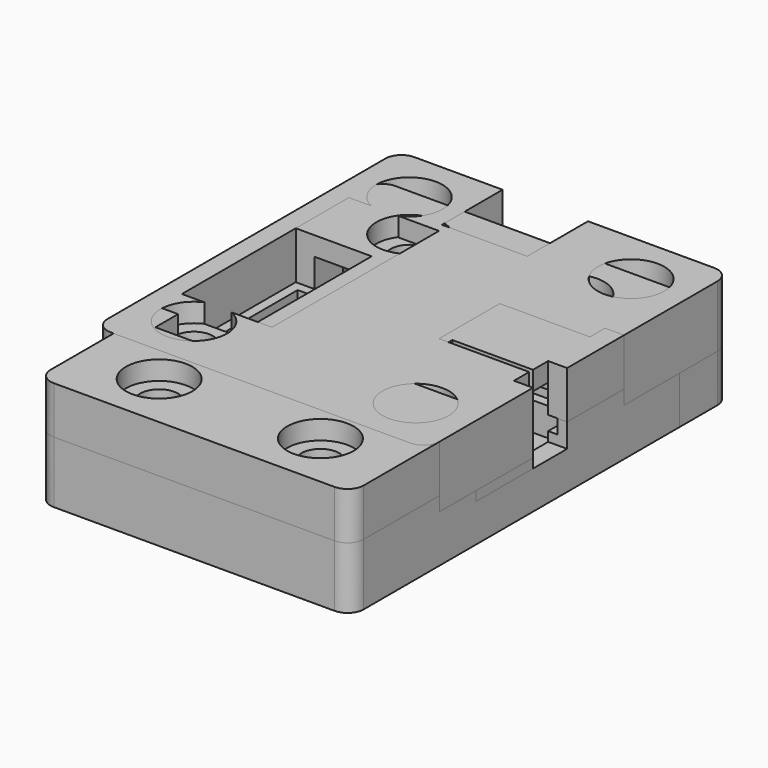
from build123d import *

# Parameters (mm, degrees)
BOX024_W          = 2
BOX024_H          = 12
BOX024_DEPTH      = 10
CYLINDER002_R     = 2
CYLINDER002_DEPTH = 5
CYLINDER001_R     = 2
CYLINDER001_DEPTH = 5
CYLINDER003_R     = 2
CYLINDER003_DEPTH = 5
CYLINDER_R        = 2
CYLINDER_DEPTH    = 5
CYLINDER008_R     = 4
CYLINDER008_DEPTH = 3
CYLINDER009_R     = 4
CYLINDER009_DEPTH = 3
CYLINDER010_R     = 4
CYLINDER010_DEPTH = 3
CYLINDER011_R     = 4
CYLINDER011_DEPTH = 3
BOX001_W          = 31
BOX001_H          = 2
BOX001_DEPTH      = 5
BOX004_W          = 2
BOX004_H          = 40
BOX004_DEPTH      = 5
BOX003_W          = 2
BOX003_H          = 40
BOX003_DEPTH      = 5
BOX_W             = 31
BOX_H             = 36
BOX_DEPTH         = 2
CYLINDER006_R     = 5.5
CYLINDER006_DEPTH = 5
CYLINDER004_R     = 5.5
CYLINDER004_DEPTH = 5
CYLINDER005_R     = 5.5
CYLINDER005_DEPTH = 5
CYLINDER007_R     = 5.5
CYLINDER007_DEPTH = 5
BOX002_W          = 31
BOX002_H          = 2
BOX002_DEPTH      = 5
FILLET_R          = 1.7
BOX048_W          = 2
BOX048_H          = 12
BOX048_DEPTH      = 3
CYLINDER026_R     = 4
CYLINDER026_DEPTH = 3
CYLINDER024_R     = 2
CYLINDER024_DEPTH = 6.5
CYLINDER030_R     = 4
CYLINDER030_DEPTH = 3
CYLINDER031_R     = 4
CYLINDER031_DEPTH = 3
CYLINDER032_R     = 4
CYLINDER032_DEPTH = 3
CYLINDER033_R     = 2
CYLINDER033_DEPTH = 6.5
CYLINDER034_R     = 2
CYLINDER034_DEPTH = 6.5
CYLINDER035_R     = 2
CYLINDER035_DEPTH = 6.5
BOX026_W          = 33
BOX026_H          = 12
BOX026_DEPTH      = 2
BOX027_W          = 33
BOX027_H          = 2
BOX027_DEPTH      = 3
BOX028_W          = 33
BOX028_H          = 2
BOX028_DEPTH      = 3
BOX029_W          = 33
BOX029_H          = 12
BOX029_DEPTH      = 2
CYLINDER025_R     = 5.5
CYLINDER025_DEPTH = 6.5
CYLINDER027_R     = 5.5
CYLINDER027_DEPTH = 6.5
CYLINDER028_R     = 5.5
CYLINDER028_DEPTH = 6.5
CYLINDER029_R     = 5.5
CYLINDER029_DEPTH = 6.5
BOX030_W          = 33
BOX030_H          = 2
BOX030_DEPTH      = 3
BOX031_W          = 33
BOX031_H          = 2
BOX031_DEPTH      = 3
BOX032_W          = 2
BOX032_H          = 19
BOX032_DEPTH      = 3
BOX033_W          = 2
BOX033_H          = 19
BOX033_DEPTH      = 3
BOX034_W          = 2
BOX034_H          = 9
BOX034_DEPTH      = 3
BOX035_W          = 2
BOX035_H          = 9
BOX035_DEPTH      = 3
BOX036_W          = 2
BOX036_H          = 9
BOX036_DEPTH      = 3
BOX037_W          = 2
BOX037_H          = 9
BOX037_DEPTH      = 3
BOX038_W          = 29
BOX038_H          = 1
BOX038_DEPTH      = 1.5
BOX039_W          = 31
BOX039_H          = 1
BOX039_DEPTH      = 1.5
BOX040_W          = 29
BOX040_H          = 1
BOX040_DEPTH      = 1.5
BOX041_W          = 31
BOX041_H          = 1
BOX041_DEPTH      = 1.5
BOX042_W          = 1
BOX042_H          = 41
BOX042_DEPTH      = 1.5
BOX043_W          = 1
BOX043_H          = 41
BOX043_DEPTH      = 1.5
BOX044_W          = 2
BOX044_H          = 2
BOX044_DEPTH      = 1.5
BOX045_W          = 2
BOX045_H          = 2
BOX045_DEPTH      = 1.5
BOX046_W          = 2
BOX046_H          = 2
BOX046_DEPTH      = 1.5
BOX047_W          = 2
BOX047_H          = 2
BOX047_DEPTH      = 1.5
BOX025_W          = 33
BOX025_H          = 21
BOX025_DEPTH      = 2
FILLET006_R       = 1.7
CYLINDER047_R     = 3.5
CYLINDER047_DEPTH = 2
CYLINDER046_R     = 3.5
CYLINDER046_DEPTH = 2
BOX060_W          = 8
BOX060_H          = 6
BOX060_DEPTH      = 2
BOX061_W          = 8.5
BOX061_H          = 8
BOX061_DEPTH      = 2
BOX059_W          = 2
BOX059_H          = 12
BOX059_DEPTH      = 5
BOX058_W          = 6
BOX058_H          = 3
BOX058_DEPTH      = 2
BOX057_W          = 8
BOX057_H          = 18
BOX057_DEPTH      = 5
CYLINDER040_R     = 2
CYLINDER040_DEPTH = 5
CYLINDER041_R     = 2
CYLINDER041_DEPTH = 5
CYLINDER042_R     = 2
CYLINDER042_DEPTH = 5
CYLINDER044_R     = 3.5
CYLINDER044_DEPTH = 2
CYLINDER043_R     = 2
CYLINDER043_DEPTH = 5
CYLINDER045_R     = 3.5
CYLINDER045_DEPTH = 2
BOX055_W          = 29
BOX055_H          = 2
BOX055_DEPTH      = 3
BOX050_W          = 2
BOX050_H          = 16
BOX050_DEPTH      = 3
BOX052_W          = 31
BOX052_H          = 2
BOX052_DEPTH      = 3
BOX054_W          = 2
BOX054_H          = 41
BOX054_DEPTH      = 3
BOX056_W          = 23
BOX056_H          = 2
BOX056_DEPTH      = 3
CYLINDER036_R     = 5.5
CYLINDER036_DEPTH = 5
CYLINDER038_R     = 5.5
CYLINDER038_DEPTH = 5
BOX053_W          = 31
BOX053_H          = 2
BOX053_DEPTH      = 3
BOX049_W          = 33
BOX049_H          = 45
BOX049_DEPTH      = 2
CYLINDER039_R     = 5.5
CYLINDER039_DEPTH = 5
CYLINDER037_R     = 5.5
CYLINDER037_DEPTH = 5
BOX051_W          = 2
BOX051_H          = 11
BOX051_DEPTH      = 3
FILLET007_R       = 1.7
CYLINDER016_R     = 2
CYLINDER016_DEPTH = 5
CYLINDER017_R     = 2
CYLINDER017_DEPTH = 5
CYLINDER018_R     = 2
CYLINDER018_DEPTH = 5
BOX022_W          = 9
BOX022_H          = 8
BOX022_DEPTH      = 10
BOX021_W          = 9.5
BOX021_H          = 8
BOX021_DEPTH      = 10
BOX020_W          = 9.5
BOX020_H          = 22
BOX020_DEPTH      = 10
CYLINDER019_R     = 2
CYLINDER019_DEPTH = 5
CYLINDER020_R     = 3.5
CYLINDER020_DEPTH = 2
CYLINDER021_R     = 3.5
CYLINDER021_DEPTH = 2
CYLINDER022_R     = 3.5
CYLINDER022_DEPTH = 2
CYLINDER023_R     = 3.5
CYLINDER023_DEPTH = 2
BOX023_W          = 2
BOX023_H          = 12
BOX023_DEPTH      = 10
BOX015_W          = 31
BOX015_H          = 36
BOX015_DEPTH      = 2
BOX010_W          = 31
BOX010_H          = 2
BOX010_DEPTH      = 5
BOX014_W          = 2
BOX014_H          = 16
BOX014_DEPTH      = 5
BOX012_W          = 31
BOX012_H          = 2
BOX012_DEPTH      = 5
BOX011_W          = 2
BOX011_H          = 40
BOX011_DEPTH      = 5
CYLINDER013_R     = 4.5
CYLINDER013_DEPTH = 5
CYLINDER015_R     = 4.5
CYLINDER015_DEPTH = 5
CYLINDER014_R     = 4.5
CYLINDER014_DEPTH = 5
CYLINDER012_R     = 4.5
CYLINDER012_DEPTH = 5
BOX013_W          = 2
BOX013_H          = 16
BOX013_DEPTH      = 5
BOX016_W          = 2
BOX016_H          = 2
BOX016_DEPTH      = 1.5
BOX017_W          = 2
BOX017_H          = 2
BOX017_DEPTH      = 1.5
BOX019_W          = 2
BOX019_H          = 2
BOX019_DEPTH      = 1.5
BOX007_W          = 1
BOX007_H          = 36
BOX007_DEPTH      = 1.5
BOX005_W          = 31
BOX005_H          = 1
BOX005_DEPTH      = 1.5
BOX008_W          = 1
BOX008_H          = 14
BOX008_DEPTH      = 1.5
BOX009_W          = 1
BOX009_H          = 14
BOX009_DEPTH      = 1.5
BOX006_W          = 31
BOX006_H          = 1
BOX006_DEPTH      = 1.5
BOX018_W          = 2
BOX018_H          = 2
BOX018_DEPTH      = 1.5
FILLET008_R       = 1.7


with BuildPart() as cube024:
    # Box024 → Box024 (new body)
    with BuildSketch(Plane(origin=(31, 12, 4), x_dir=(1, 0, 0), z_dir=(0, 0, 1))):
        with Locations((1, 6)):
            Rectangle(BOX024_W, BOX024_H)
    extrude(amount=BOX024_DEPTH)


with BuildPart() as cylinder002:
    # Cylinder002 → Cylinder002 (new body)
    with BuildSketch(Plane(origin=(3.81, 32.19, 0), x_dir=(1, 0, 0), z_dir=(0, 0, 1))):
        Circle(CYLINDER002_R)
    extrude(amount=CYLINDER002_DEPTH)


with BuildPart() as cylinder001:
    # Cylinder001 → Cylinder001 (new body)
    with BuildSketch(Plane(origin=(27.19, 32.19, 0), x_dir=(1, 0, 0), z_dir=(0, 0, 1))):
        Circle(CYLINDER001_R)
    extrude(amount=CYLINDER001_DEPTH)


with BuildPart() as cylinder003:
    # Cylinder003 → Cylinder003 (new body)
    with BuildSketch(Plane(origin=(27.19, 3.81, 0), x_dir=(1, 0, 0), z_dir=(0, 0, 1))):
        Circle(CYLINDER003_R)
    extrude(amount=CYLINDER003_DEPTH)


with BuildPart() as cylinder:
    # Cylinder → Cylinder (new body)
    with BuildSketch(Plane(origin=(3.81, 3.81, 0), x_dir=(1, 0, 0), z_dir=(0, 0, 1))):
        Circle(CYLINDER_R)
    extrude(amount=CYLINDER_DEPTH)


with BuildPart() as cylinder008:
    # Cylinder008 → Cylinder008 (new body)
    with BuildSketch(Plane(origin=(3.81, 3.81, 0), x_dir=(1, 0, 0), z_dir=(0, 0, 1))):
        Circle(CYLINDER008_R)
    extrude(amount=CYLINDER008_DEPTH)


with BuildPart() as cylinder009:
    # Cylinder009 → Cylinder009 (new body)
    with BuildSketch(Plane(origin=(3.81, 32.19, 0), x_dir=(1, 0, 0), z_dir=(0, 0, 1))):
        Circle(CYLINDER009_R)
    extrude(amount=CYLINDER009_DEPTH)


with BuildPart() as cylinder010:
    # Cylinder010 → Cylinder010 (new body)
    with BuildSketch(Plane(origin=(27.19, 32.19, 0), x_dir=(1, 0, 0), z_dir=(0, 0, 1))):
        Circle(CYLINDER010_R)
    extrude(amount=CYLINDER010_DEPTH)


with BuildPart() as cylinder011:
    # Cylinder011 → Cylinder011 (new body)
    with BuildSketch(Plane(origin=(27.19, 3.81, 0), x_dir=(1, 0, 0), z_dir=(0, 0, 1))):
        Circle(CYLINDER011_R)
    extrude(amount=CYLINDER011_DEPTH)


with BuildPart() as cube001:
    # Box001 → Box001 (new body)
    with BuildSketch(Plane(origin=(0, -2, 0), x_dir=(1, 0, 0), z_dir=(0, 0, 1))):
        with Locations((15.5, 1)):
            Rectangle(BOX001_W, BOX001_H)
    extrude(amount=BOX001_DEPTH)


with BuildPart() as cube004:
    # Box004 → Box004 (new body)
    with BuildSketch(Plane(origin=(31, -2, 0), x_dir=(1, 0, 0), z_dir=(0, 0, 1))):
        with Locations((1, 20)):
            Rectangle(BOX004_W, BOX004_H)
    extrude(amount=BOX004_DEPTH)


with BuildPart() as cube003:
    # Box003 → Box003 (new body)
    with BuildSketch(Plane(origin=(-2, -2, 0), x_dir=(1, 0, 0), z_dir=(0, 0, 1))):
        with Locations((1, 20)):
            Rectangle(BOX003_W, BOX003_H)
    extrude(amount=BOX003_DEPTH)


with BuildPart() as cube:
    # Box → Box (new body)
    with BuildSketch(Plane.XY):
        with Locations((15.5, 18)):
            Rectangle(BOX_W, BOX_H)
    extrude(amount=BOX_DEPTH)


with BuildPart() as cylinder006:
    # Cylinder006 → Cylinder006 (new body)
    with BuildSketch(Plane(origin=(3.81, 32.19, 0), x_dir=(1, 0, 0), z_dir=(0, 0, 1))):
        Circle(CYLINDER006_R)
    extrude(amount=CYLINDER006_DEPTH)


with BuildPart() as cylinder004:
    # Cylinder004 → Cylinder004 (new body)
    with BuildSketch(Plane(origin=(3.81, 3.81, 0), x_dir=(1, 0, 0), z_dir=(0, 0, 1))):
        Circle(CYLINDER004_R)
    extrude(amount=CYLINDER004_DEPTH)


with BuildPart() as cylinder005:
    # Cylinder005 → Cylinder005 (new body)
    with BuildSketch(Plane(origin=(27.19, 3.81, 0), x_dir=(1, 0, 0), z_dir=(0, 0, 1))):
        Circle(CYLINDER005_R)
    extrude(amount=CYLINDER005_DEPTH)


with BuildPart() as cylinder007:
    # Cylinder007 → Cylinder007 (new body)
    with BuildSketch(Plane(origin=(27.19, 32.19, 0), x_dir=(1, 0, 0), z_dir=(0, 0, 1))):
        Circle(CYLINDER007_R)
    extrude(amount=CYLINDER007_DEPTH)


with BuildPart() as rs232_bottom_half:
    # Box002 → Box002 (new body)
    with BuildSketch(Plane(origin=(0, 36, 0), x_dir=(1, 0, 0), z_dir=(0, 0, 1))):
        with Locations((15.5, 1)):
            Rectangle(BOX002_W, BOX002_H)
    extrude(amount=BOX002_DEPTH)

    # Fusion: union Cube001, Cube004, Cube003, Cube, Cylinder006, Cylinder004, Cylinder005, Cylinder007
    add(cube001.part)
    add(cube004.part)
    add(cube003.part)
    add(cube.part)
    add(cylinder006.part)
    add(cylinder004.part)
    add(cylinder005.part)
    add(cylinder007.part)

    # Cut: cut Cylinder011
    add(cylinder011.part, mode=Mode.SUBTRACT)

    # Cut001: cut Cylinder010
    add(cylinder010.part, mode=Mode.SUBTRACT)

    # Cut002: cut Cylinder009
    add(cylinder009.part, mode=Mode.SUBTRACT)

    # Cut003: cut Cylinder008
    add(cylinder008.part, mode=Mode.SUBTRACT)

    # Cut004: cut Cylinder
    add(cylinder.part, mode=Mode.SUBTRACT)

    # Cut005: cut Cylinder003
    add(cylinder003.part, mode=Mode.SUBTRACT)

    # Cut006: cut Cylinder001
    add(cylinder001.part, mode=Mode.SUBTRACT)

    # Cut007: cut Cylinder002
    add(cylinder002.part, mode=Mode.SUBTRACT)

    # Fillet
    fillet_edges = [rs232_bottom_half.edges().sort_by_distance(p)[0] for p in [
        (33, -2, 2.5),
        (33, 38, 2.5),
        (-2, -2, 2.5),
        (-2, 38, 2.5),
    ]]
    fillet(fillet_edges, radius=FILLET_R)

    # Cut020: cut Cube024
    add(cube024.part, mode=Mode.SUBTRACT)


with BuildPart() as cube048:
    # Box048 → Box048 (new body)
    with BuildSketch(Plane(origin=(31, 4.5, 4), x_dir=(1, 0, 0), z_dir=(0, 0, 1))):
        with Locations((1, 6)):
            Rectangle(BOX048_W, BOX048_H)
    extrude(amount=BOX048_DEPTH)


with BuildPart() as cylinder026:
    # Cylinder026 → Cylinder026 (new body)
    with BuildSketch(Plane(origin=(8, -6, 0), x_dir=(1, 0, 0), z_dir=(0, 0, 1))):
        Circle(CYLINDER026_R)
    extrude(amount=CYLINDER026_DEPTH)


with BuildPart() as cylinder024:
    # Cylinder024 → Cylinder024 (new body)
    with BuildSketch(Plane(origin=(8, -6, 0), x_dir=(1, 0, 0), z_dir=(0, 0, 1))):
        Circle(CYLINDER024_R)
    extrude(amount=CYLINDER024_DEPTH)


with BuildPart() as cylinder030:
    # Cylinder030 → Cylinder030 (new body)
    with BuildSketch(Plane(origin=(8, 27, 0), x_dir=(1, 0, 0), z_dir=(0, 0, 1))):
        Circle(CYLINDER030_R)
    extrude(amount=CYLINDER030_DEPTH)


with BuildPart() as cylinder031:
    # Cylinder031 → Cylinder031 (new body)
    with BuildSketch(Plane(origin=(25, 27, 0), x_dir=(1, 0, 0), z_dir=(0, 0, 1))):
        Circle(CYLINDER031_R)
    extrude(amount=CYLINDER031_DEPTH)


with BuildPart() as cylinder032:
    # Cylinder032 → Cylinder032 (new body)
    with BuildSketch(Plane(origin=(25, -6, 0), x_dir=(1, 0, 0), z_dir=(0, 0, 1))):
        Circle(CYLINDER032_R)
    extrude(amount=CYLINDER032_DEPTH)


with BuildPart() as cylinder033:
    # Cylinder033 → Cylinder033 (new body)
    with BuildSketch(Plane(origin=(25, -6, 0), x_dir=(1, 0, 0), z_dir=(0, 0, 1))):
        Circle(CYLINDER033_R)
    extrude(amount=CYLINDER033_DEPTH)


with BuildPart() as cylinder034:
    # Cylinder034 → Cylinder034 (new body)
    with BuildSketch(Plane(origin=(25, 27, 0), x_dir=(1, 0, 0), z_dir=(0, 0, 1))):
        Circle(CYLINDER034_R)
    extrude(amount=CYLINDER034_DEPTH)


with BuildPart() as cylinder035:
    # Cylinder035 → Cylinder035 (new body)
    with BuildSketch(Plane(origin=(8, 27, 0), x_dir=(1, 0, 0), z_dir=(0, 0, 1))):
        Circle(CYLINDER035_R)
    extrude(amount=CYLINDER035_DEPTH)


with BuildPart() as cube026:
    # Box026 → Box026 (new body)
    with BuildSketch(Plane(origin=(0, -12, 0), x_dir=(1, 0, 0), z_dir=(0, 0, 1))):
        with Locations((16.5, 6)):
            Rectangle(BOX026_W, BOX026_H)
    extrude(amount=BOX026_DEPTH)


with BuildPart() as cube027:
    # Box027 → Box027 (new body)
    with BuildSketch(Plane(origin=(0, -1, 2), x_dir=(1, 0, 0), z_dir=(0, 0, 1))):
        with Locations((16.5, 1)):
            Rectangle(BOX027_W, BOX027_H)
    extrude(amount=BOX027_DEPTH)


with BuildPart() as cube028:
    # Box028 → Box028 (new body)
    with BuildSketch(Plane(origin=(0, 20, 2), x_dir=(1, 0, 0), z_dir=(0, 0, 1))):
        with Locations((16.5, 1)):
            Rectangle(BOX028_W, BOX028_H)
    extrude(amount=BOX028_DEPTH)


with BuildPart() as cube029:
    # Box029 → Box029 (new body)
    with BuildSketch(Plane(origin=(0, 21, 0), x_dir=(1, 0, 0), z_dir=(0, 0, 1))):
        with Locations((16.5, 6)):
            Rectangle(BOX029_W, BOX029_H)
    extrude(amount=BOX029_DEPTH)


with BuildPart() as cylinder025:
    # Cylinder025 → Cylinder025 (new body)
    with BuildSketch(Plane(origin=(8, -6, 0), x_dir=(1, 0, 0), z_dir=(0, 0, 1))):
        Circle(CYLINDER025_R)
    extrude(amount=CYLINDER025_DEPTH)


with BuildPart() as cylinder027:
    # Cylinder027 → Cylinder027 (new body)
    with BuildSketch(Plane(origin=(8, 27, 0), x_dir=(1, 0, 0), z_dir=(0, 0, 1))):
        Circle(CYLINDER027_R)
    extrude(amount=CYLINDER027_DEPTH)


with BuildPart() as cylinder028:
    # Cylinder028 → Cylinder028 (new body)
    with BuildSketch(Plane(origin=(25, -6, 0), x_dir=(1, 0, 0), z_dir=(0, 0, 1))):
        Circle(CYLINDER028_R)
    extrude(amount=CYLINDER028_DEPTH)


with BuildPart() as cylinder029:
    # Cylinder029 → Cylinder029 (new body)
    with BuildSketch(Plane(origin=(25, 27, 0), x_dir=(1, 0, 0), z_dir=(0, 0, 1))):
        Circle(CYLINDER029_R)
    extrude(amount=CYLINDER029_DEPTH)


with BuildPart() as cube030:
    # Box030 → Box030 (new body)
    with BuildSketch(Plane(origin=(0, -12, 2), x_dir=(1, 0, 0), z_dir=(0, 0, 1))):
        with Locations((16.5, 1)):
            Rectangle(BOX030_W, BOX030_H)
    extrude(amount=BOX030_DEPTH)


with BuildPart() as cube031:
    # Box031 → Box031 (new body)
    with BuildSketch(Plane(origin=(0, 31, 2), x_dir=(1, 0, 0), z_dir=(0, 0, 1))):
        with Locations((16.5, 1)):
            Rectangle(BOX031_W, BOX031_H)
    extrude(amount=BOX031_DEPTH)


with BuildPart() as cube032:
    # Box032 → Box032 (new body)
    with BuildSketch(Plane(origin=(0, 1, 2), x_dir=(1, 0, 0), z_dir=(0, 0, 1))):
        with Locations((1, 9.5)):
            Rectangle(BOX032_W, BOX032_H)
    extrude(amount=BOX032_DEPTH)


with BuildPart() as cube033:
    # Box033 → Box033 (new body)
    with BuildSketch(Plane(origin=(31, 1, 2), x_dir=(1, 0, 0), z_dir=(0, 0, 1))):
        with Locations((1, 9.5)):
            Rectangle(BOX033_W, BOX033_H)
    extrude(amount=BOX033_DEPTH)


with BuildPart() as cube034:
    # Box034 → Box034 (new body)
    with BuildSketch(Plane(origin=(0, -10, 2), x_dir=(1, 0, 0), z_dir=(0, 0, 1))):
        with Locations((1, 4.5)):
            Rectangle(BOX034_W, BOX034_H)
    extrude(amount=BOX034_DEPTH)


with BuildPart() as cube035:
    # Box035 → Box035 (new body)
    with BuildSketch(Plane(origin=(0, 22, 2), x_dir=(1, 0, 0), z_dir=(0, 0, 1))):
        with Locations((1, 4.5)):
            Rectangle(BOX035_W, BOX035_H)
    extrude(amount=BOX035_DEPTH)


with BuildPart() as cube036:
    # Box036 → Box036 (new body)
    with BuildSketch(Plane(origin=(31, 22, 2), x_dir=(1, 0, 0), z_dir=(0, 0, 1))):
        with Locations((1, 4.5)):
            Rectangle(BOX036_W, BOX036_H)
    extrude(amount=BOX036_DEPTH)


with BuildPart() as cube037:
    # Box037 → Box037 (new body)
    with BuildSketch(Plane(origin=(31, -10, 2), x_dir=(1, 0, 0), z_dir=(0, 0, 1))):
        with Locations((1, 4.5)):
            Rectangle(BOX037_W, BOX037_H)
    extrude(amount=BOX037_DEPTH)


with BuildPart() as cube038:
    # Box038 → Box038 (new body)
    with BuildSketch(Plane(origin=(2, -12, 5), x_dir=(1, 0, 0), z_dir=(0, 0, 1))):
        with Locations((14.5, 0.5)):
            Rectangle(BOX038_W, BOX038_H)
    extrude(amount=BOX038_DEPTH)


with BuildPart() as cube039:
    # Box039 → Box039 (new body)
    with BuildSketch(Plane(origin=(1, -1, 5), x_dir=(1, 0, 0), z_dir=(0, 0, 1))):
        with Locations((15.5, 0.5)):
            Rectangle(BOX039_W, BOX039_H)
    extrude(amount=BOX039_DEPTH)


with BuildPart() as cube040:
    # Box040 → Box040 (new body)
    with BuildSketch(Plane(origin=(2, 32, 5), x_dir=(1, 0, 0), z_dir=(0, 0, 1))):
        with Locations((14.5, 0.5)):
            Rectangle(BOX040_W, BOX040_H)
    extrude(amount=BOX040_DEPTH)


with BuildPart() as cube041:
    # Box041 → Box041 (new body)
    with BuildSketch(Plane(origin=(1, 21, 5), x_dir=(1, 0, 0), z_dir=(0, 0, 1))):
        with Locations((15.5, 0.5)):
            Rectangle(BOX041_W, BOX041_H)
    extrude(amount=BOX041_DEPTH)


with BuildPart() as cube042:
    # Box042 → Box042 (new body)
    with BuildSketch(Plane(origin=(0, -10, 5), x_dir=(1, 0, 0), z_dir=(0, 0, 1))):
        with Locations((0.5, 20.5)):
            Rectangle(BOX042_W, BOX042_H)
    extrude(amount=BOX042_DEPTH)


with BuildPart() as cube043:
    # Box043 → Box043 (new body)
    with BuildSketch(Plane(origin=(32, -10, 5), x_dir=(1, 0, 0), z_dir=(0, 0, 1))):
        with Locations((0.5, 20.5)):
            Rectangle(BOX043_W, BOX043_H)
    extrude(amount=BOX043_DEPTH)


with BuildPart() as cube044:
    # Box044 → Box044 (new body)
    with BuildSketch(Plane(origin=(0, -12, 5), x_dir=(1, 0, 0), z_dir=(0, 0, 1))):
        with Locations((1, 1)):
            Rectangle(BOX044_W, BOX044_H)
    extrude(amount=BOX044_DEPTH)


with BuildPart() as cube045:
    # Box045 → Box045 (new body)
    with BuildSketch(Plane(origin=(31, -12, 5), x_dir=(1, 0, 0), z_dir=(0, 0, 1))):
        with Locations((1, 1)):
            Rectangle(BOX045_W, BOX045_H)
    extrude(amount=BOX045_DEPTH)


with BuildPart() as cube046:
    # Box046 → Box046 (new body)
    with BuildSketch(Plane(origin=(0, 31, 5), x_dir=(1, 0, 0), z_dir=(0, 0, 1))):
        with Locations((1, 1)):
            Rectangle(BOX046_W, BOX046_H)
    extrude(amount=BOX046_DEPTH)


with BuildPart() as cube047:
    # Box047 → Box047 (new body)
    with BuildSketch(Plane(origin=(31, 31, 5), x_dir=(1, 0, 0), z_dir=(0, 0, 1))):
        with Locations((1, 1)):
            Rectangle(BOX047_W, BOX047_H)
    extrude(amount=BOX047_DEPTH)


with BuildPart() as rs485_bottom_half:
    # Box025 → Box025 (new body)
    with BuildSketch(Plane.XY):
        with Locations((16.5, 10.5)):
            Rectangle(BOX025_W, BOX025_H)
    extrude(amount=BOX025_DEPTH)

    # Fusion004: union Cube026, Cube027, Cube028, Cube029, Cylinder025, Cylinder027, Cylinder028, Cylinder029, Cube030, Cube031, Cube032, Cube033, Cube034, Cube035, Cube036, Cube037, Cube038, Cube039, Cube040, Cube041, Cube042, Cube043, Cube044, Cube045, Cube046, Cube047
    add(cube026.part)
    add(cube027.part)
    add(cube028.part)
    add(cube029.part)
    add(cylinder025.part)
    add(cylinder027.part)
    add(cylinder028.part)
    add(cylinder029.part)
    add(cube030.part)
    add(cube031.part)
    add(cube032.part)
    add(cube033.part)
    add(cube034.part)
    add(cube035.part)
    add(cube036.part)
    add(cube037.part)
    add(cube038.part)
    add(cube039.part)
    add(cube040.part)
    add(cube041.part)
    add(cube042.part)
    add(cube043.part)
    add(cube044.part)
    add(cube045.part)
    add(cube046.part)
    add(cube047.part)

    # Cut021: cut Cylinder035
    add(cylinder035.part, mode=Mode.SUBTRACT)

    # Cut022: cut Cylinder034
    add(cylinder034.part, mode=Mode.SUBTRACT)

    # Cut023: cut Cylinder033
    add(cylinder033.part, mode=Mode.SUBTRACT)

    # Cut024: cut Cylinder032
    add(cylinder032.part, mode=Mode.SUBTRACT)

    # Cut025: cut Cylinder031
    add(cylinder031.part, mode=Mode.SUBTRACT)

    # Cut026: cut Cylinder030
    add(cylinder030.part, mode=Mode.SUBTRACT)

    # Cut027: cut Cylinder024
    add(cylinder024.part, mode=Mode.SUBTRACT)

    # Cut028: cut Cylinder026
    add(cylinder026.part, mode=Mode.SUBTRACT)

    # Cut029: cut Cube048
    add(cube048.part, mode=Mode.SUBTRACT)

    # Fillet006
    fillet006_edges = [rs485_bottom_half.edges().sort_by_distance(p)[0] for p in [
        (0, -12, 1),
        (33, -12, 1),
        (0, -12, 3.5),
        (33, -12, 3.5),
        (0, -12, 5.75),
        (0, 33, 1),
        (33, -12, 5.75),
        (33, 33, 1),
        (0, 33, 3.5),
        (0, 33, 5.75),
        (33, 33, 3.5),
        (33, 33, 5.75),
    ]]
    fillet(fillet006_edges, radius=FILLET006_R)


with BuildPart() as cylinder047:
    # Cylinder047 → Cylinder047 (new body)
    with BuildSketch(Plane(origin=(25, -6, 9.5), x_dir=(1, 0, 0), z_dir=(0, 0, 1))):
        Circle(CYLINDER047_R)
    extrude(amount=CYLINDER047_DEPTH)


with BuildPart() as cylinder046:
    # Cylinder046 → Cylinder046 (new body)
    with BuildSketch(Plane(origin=(25, 27, 9.5), x_dir=(1, 0, 0), z_dir=(0, 0, 1))):
        Circle(CYLINDER046_R)
    extrude(amount=CYLINDER046_DEPTH)


with BuildPart() as cube060:
    # Box060 → Box060 (new body)
    with BuildSketch(Plane(origin=(11, 14, 9.5), x_dir=(1, 0, 0), z_dir=(0, 0, 1))):
        with Locations((4, 3)):
            Rectangle(BOX060_W, BOX060_H)
    extrude(amount=BOX060_DEPTH)


with BuildPart() as cube061:
    # Box061 → Box061 (new body)
    with BuildSketch(Plane(origin=(22.5, 6.5, 9.5), x_dir=(1, 0, 0), z_dir=(0, 0, 1))):
        with Locations((4.25, 4)):
            Rectangle(BOX061_W, BOX061_H)
    extrude(amount=BOX061_DEPTH)


with BuildPart() as cube059:
    # Box059 → Box059 (new body)
    with BuildSketch(Plane(origin=(31, 4.5, 6.5), x_dir=(1, 0, 0), z_dir=(0, 0, 1))):
        with Locations((1, 6)):
            Rectangle(BOX059_W, BOX059_H)
    extrude(amount=BOX059_DEPTH)


with BuildPart() as cube058:
    # Box058 → Box058 (new body)
    with BuildSketch(Plane(origin=(2, 1, 9.5), x_dir=(1, 0, 0), z_dir=(0, 0, 1))):
        with Locations((3, 1.5)):
            Rectangle(BOX058_W, BOX058_H)
    extrude(amount=BOX058_DEPTH)


with BuildPart() as cube057:
    # Box057 → Box057 (new body)
    with BuildSketch(Plane(origin=(0, 4, 6.5), x_dir=(1, 0, 0), z_dir=(0, 0, 1))):
        with Locations((4, 9)):
            Rectangle(BOX057_W, BOX057_H)
    extrude(amount=BOX057_DEPTH)


with BuildPart() as cylinder040:
    # Cylinder040 → Cylinder040 (new body)
    with BuildSketch(Plane(origin=(8, 27, 6.5), x_dir=(1, 0, 0), z_dir=(0, 0, 1))):
        Circle(CYLINDER040_R)
    extrude(amount=CYLINDER040_DEPTH)


with BuildPart() as cylinder041:
    # Cylinder041 → Cylinder041 (new body)
    with BuildSketch(Plane(origin=(25, 27, 6.5), x_dir=(1, 0, 0), z_dir=(0, 0, 1))):
        Circle(CYLINDER041_R)
    extrude(amount=CYLINDER041_DEPTH)


with BuildPart() as cylinder042:
    # Cylinder042 → Cylinder042 (new body)
    with BuildSketch(Plane(origin=(25, -6, 6.5), x_dir=(1, 0, 0), z_dir=(0, 0, 1))):
        Circle(CYLINDER042_R)
    extrude(amount=CYLINDER042_DEPTH)


with BuildPart() as cylinder044:
    # Cylinder044 → Cylinder044 (new body)
    with BuildSketch(Plane(origin=(8, -6, 9.5), x_dir=(1, 0, 0), z_dir=(0, 0, 1))):
        Circle(CYLINDER044_R)
    extrude(amount=CYLINDER044_DEPTH)


with BuildPart() as cylinder043:
    # Cylinder043 → Cylinder043 (new body)
    with BuildSketch(Plane(origin=(8, -6, 6.5), x_dir=(1, 0, 0), z_dir=(0, 0, 1))):
        Circle(CYLINDER043_R)
    extrude(amount=CYLINDER043_DEPTH)


with BuildPart() as cylinder045:
    # Cylinder045 → Cylinder045 (new body)
    with BuildSketch(Plane(origin=(8, 27, 9.5), x_dir=(1, 0, 0), z_dir=(0, 0, 1))):
        Circle(CYLINDER045_R)
    extrude(amount=CYLINDER045_DEPTH)


with BuildPart() as cube055:
    # Box055 → Box055 (new body)
    with BuildSketch(Plane(origin=(2, -1, 6.5), x_dir=(1, 0, 0), z_dir=(0, 0, 1))):
        with Locations((14.5, 1)):
            Rectangle(BOX055_W, BOX055_H)
    extrude(amount=BOX055_DEPTH)


with BuildPart() as cube050:
    # Box050 → Box050 (new body)
    with BuildSketch(Plane(origin=(0, -12, 6.5), x_dir=(1, 0, 0), z_dir=(0, 0, 1))):
        with Locations((1, 8)):
            Rectangle(BOX050_W, BOX050_H)
    extrude(amount=BOX050_DEPTH)


with BuildPart() as cube052:
    # Box052 → Box052 (new body)
    with BuildSketch(Plane(origin=(2, 31, 6.5), x_dir=(1, 0, 0), z_dir=(0, 0, 1))):
        with Locations((15.5, 1)):
            Rectangle(BOX052_W, BOX052_H)
    extrude(amount=BOX052_DEPTH)


with BuildPart() as cube054:
    # Box054 → Box054 (new body)
    with BuildSketch(Plane(origin=(31, -10, 6.5), x_dir=(1, 0, 0), z_dir=(0, 0, 1))):
        with Locations((1, 20.5)):
            Rectangle(BOX054_W, BOX054_H)
    extrude(amount=BOX054_DEPTH)


with BuildPart() as cube056:
    # Box056 → Box056 (new body)
    with BuildSketch(Plane(origin=(8, 20, 6.5), x_dir=(1, 0, 0), z_dir=(0, 0, 1))):
        with Locations((11.5, 1)):
            Rectangle(BOX056_W, BOX056_H)
    extrude(amount=BOX056_DEPTH)


with BuildPart() as cylinder036:
    # Cylinder036 → Cylinder036 (new body)
    with BuildSketch(Plane(origin=(8, -6, 6.5), x_dir=(1, 0, 0), z_dir=(0, 0, 1))):
        Circle(CYLINDER036_R)
    extrude(amount=CYLINDER036_DEPTH)


with BuildPart() as cylinder038:
    # Cylinder038 → Cylinder038 (new body)
    with BuildSketch(Plane(origin=(25, -6, 6.5), x_dir=(1, 0, 0), z_dir=(0, 0, 1))):
        Circle(CYLINDER038_R)
    extrude(amount=CYLINDER038_DEPTH)


with BuildPart() as cube053:
    # Box053 → Box053 (new body)
    with BuildSketch(Plane(origin=(2, -12, 6.5), x_dir=(1, 0, 0), z_dir=(0, 0, 1))):
        with Locations((15.5, 1)):
            Rectangle(BOX053_W, BOX053_H)
    extrude(amount=BOX053_DEPTH)


with BuildPart() as cube049:
    # Box049 → Box049 (new body)
    with BuildSketch(Plane(origin=(0, -12, 9.5), x_dir=(1, 0, 0), z_dir=(0, 0, 1))):
        with Locations((16.5, 22.5)):
            Rectangle(BOX049_W, BOX049_H)
    extrude(amount=BOX049_DEPTH)


with BuildPart() as cylinder039:
    # Cylinder039 → Cylinder039 (new body)
    with BuildSketch(Plane(origin=(8, 27, 6.5), x_dir=(1, 0, 0), z_dir=(0, 0, 1))):
        Circle(CYLINDER039_R)
    extrude(amount=CYLINDER039_DEPTH)


with BuildPart() as cylinder037:
    # Cylinder037 → Cylinder037 (new body)
    with BuildSketch(Plane(origin=(25, 27, 6.5), x_dir=(1, 0, 0), z_dir=(0, 0, 1))):
        Circle(CYLINDER037_R)
    extrude(amount=CYLINDER037_DEPTH)


with BuildPart() as rs485_top_half:
    # Box051 → Box051 (new body)
    with BuildSketch(Plane(origin=(0, 22, 6.5), x_dir=(1, 0, 0), z_dir=(0, 0, 1))):
        with Locations((1, 5.5)):
            Rectangle(BOX051_W, BOX051_H)
    extrude(amount=BOX051_DEPTH)

    # Fusion005: union Cube055, Cube050, Cube052, Cube054, Cube056, Cylinder036, Cylinder038, Cube053, Cube049, Cylinder039, Cylinder037
    add(cube055.part)
    add(cube050.part)
    add(cube052.part)
    add(cube054.part)
    add(cube056.part)
    add(cylinder036.part)
    add(cylinder038.part)
    add(cube053.part)
    add(cube049.part)
    add(cylinder039.part)
    add(cylinder037.part)

    # Cut030: cut Cylinder045
    add(cylinder045.part, mode=Mode.SUBTRACT)

    # Cut031: cut Cylinder043
    add(cylinder043.part, mode=Mode.SUBTRACT)

    # Cut032: cut Cylinder044
    add(cylinder044.part, mode=Mode.SUBTRACT)

    # Cut033: cut Cylinder042
    add(cylinder042.part, mode=Mode.SUBTRACT)

    # Cut034: cut Cylinder041
    add(cylinder041.part, mode=Mode.SUBTRACT)

    # Cut035: cut Cylinder040
    add(cylinder040.part, mode=Mode.SUBTRACT)

    # Cut036: cut Cube057
    add(cube057.part, mode=Mode.SUBTRACT)

    # Cut037: cut Cube058
    add(cube058.part, mode=Mode.SUBTRACT)

    # Cut038: cut Cube059
    add(cube059.part, mode=Mode.SUBTRACT)

    # Cut039: cut Cube061
    add(cube061.part, mode=Mode.SUBTRACT)

    # Cut040: cut Cube060
    add(cube060.part, mode=Mode.SUBTRACT)

    # Cut041: cut Cylinder046
    add(cylinder046.part, mode=Mode.SUBTRACT)

    # Cut042: cut Cylinder047
    add(cylinder047.part, mode=Mode.SUBTRACT)

    # Fillet007
    fillet007_edges = [rs485_top_half.edges().sort_by_distance(p)[0] for p in [
        (0, 33, 8),
        (33, 33, 8),
        (0, 33, 10.5),
        (33, 33, 10.5),
        (0, -12, 10.5),
        (33, -12, 10.5),
        (0, -12, 8),
        (33, -12, 8),
    ]]
    fillet(fillet007_edges, radius=FILLET007_R)


with BuildPart() as cylinder016:
    # Cylinder016 → Cylinder016 (new body)
    with BuildSketch(Plane(origin=(3.81, 3.81, 6.5), x_dir=(1, 0, 0), z_dir=(0, 0, 1))):
        Circle(CYLINDER016_R)
    extrude(amount=CYLINDER016_DEPTH)


with BuildPart() as cylinder017:
    # Cylinder017 → Cylinder017 (new body)
    with BuildSketch(Plane(origin=(27.19, 32.19, 6.5), x_dir=(1, 0, 0), z_dir=(0, 0, 1))):
        Circle(CYLINDER017_R)
    extrude(amount=CYLINDER017_DEPTH)


with BuildPart() as cylinder018:
    # Cylinder018 → Cylinder018 (new body)
    with BuildSketch(Plane(origin=(27.19, 3.81, 6.5), x_dir=(1, 0, 0), z_dir=(0, 0, 1))):
        Circle(CYLINDER018_R)
    extrude(amount=CYLINDER018_DEPTH)


with BuildPart() as cube022:
    # Box022 → Box022 (new body)
    with BuildSketch(Plane(origin=(9, 30, 6.5), x_dir=(1, 0, 0), z_dir=(0, 0, 1))):
        with Locations((4.5, 4)):
            Rectangle(BOX022_W, BOX022_H)
    extrude(amount=BOX022_DEPTH)


with BuildPart() as cube021:
    # Box021 → Box021 (new body)
    with BuildSketch(Plane(origin=(21.5, 14, 2), x_dir=(1, 0, 0), z_dir=(0, 0, 1))):
        with Locations((4.75, 4)):
            Rectangle(BOX021_W, BOX021_H)
    extrude(amount=BOX021_DEPTH)


with BuildPart() as cube020:
    # Box020 → Box020 (new body)
    with BuildSketch(Plane(origin=(0, 7, 2), x_dir=(1, 0, 0), z_dir=(0, 0, 1))):
        with Locations((4.75, 11)):
            Rectangle(BOX020_W, BOX020_H)
    extrude(amount=BOX020_DEPTH)


with BuildPart() as cylinder019:
    # Cylinder019 → Cylinder019 (new body)
    with BuildSketch(Plane(origin=(3.81, 32.19, 6.5), x_dir=(1, 0, 0), z_dir=(0, 0, 1))):
        Circle(CYLINDER019_R)
    extrude(amount=CYLINDER019_DEPTH)


with BuildPart() as cylinder020:
    # Cylinder020 → Cylinder020 (new body)
    with BuildSketch(Plane(origin=(27.19, 32.19, 9.5), x_dir=(1, 0, 0), z_dir=(0, 0, 1))):
        Circle(CYLINDER020_R)
    extrude(amount=CYLINDER020_DEPTH)


with BuildPart() as cylinder021:
    # Cylinder021 → Cylinder021 (new body)
    with BuildSketch(Plane(origin=(3.81, 32.19, 9.5), x_dir=(1, 0, 0), z_dir=(0, 0, 1))):
        Circle(CYLINDER021_R)
    extrude(amount=CYLINDER021_DEPTH)


with BuildPart() as cylinder022:
    # Cylinder022 → Cylinder022 (new body)
    with BuildSketch(Plane(origin=(27.19, 3.81, 9.5), x_dir=(1, 0, 0), z_dir=(0, 0, 1))):
        Circle(CYLINDER022_R)
    extrude(amount=CYLINDER022_DEPTH)


with BuildPart() as cylinder023:
    # Cylinder023 → Cylinder023 (new body)
    with BuildSketch(Plane(origin=(3.81, 3.81, 9.5), x_dir=(1, 0, 0), z_dir=(0, 0, 1))):
        Circle(CYLINDER023_R)
    extrude(amount=CYLINDER023_DEPTH)


with BuildPart() as cube023:
    # Box023 → Box023 (new body)
    with BuildSketch(Plane(origin=(31, 12, 3), x_dir=(1, 0, 0), z_dir=(0, 0, 1))):
        with Locations((1, 6)):
            Rectangle(BOX023_W, BOX023_H)
    extrude(amount=BOX023_DEPTH)


with BuildPart() as cube015:
    # Box015 → Box015 (new body)
    with BuildSketch(Plane.XY.offset(9.5)):
        with Locations((15.5, 18)):
            Rectangle(BOX015_W, BOX015_H)
    extrude(amount=BOX015_DEPTH)


with BuildPart() as cube010:
    # Box010 → Box010 (new body)
    with BuildSketch(Plane(origin=(0, -2, 6.5), x_dir=(1, 0, 0), z_dir=(0, 0, 1))):
        with Locations((15.5, 1)):
            Rectangle(BOX010_W, BOX010_H)
    extrude(amount=BOX010_DEPTH)


with BuildPart() as cube014:
    # Box014 → Box014 (new body)
    with BuildSketch(Plane(origin=(31, 22, 6.5), x_dir=(1, 0, 0), z_dir=(0, 0, 1))):
        with Locations((1, 8)):
            Rectangle(BOX014_W, BOX014_H)
    extrude(amount=BOX014_DEPTH)


with BuildPart() as cube012:
    # Box012 → Box012 (new body)
    with BuildSketch(Plane(origin=(0, 36, 6.5), x_dir=(1, 0, 0), z_dir=(0, 0, 1))):
        with Locations((15.5, 1)):
            Rectangle(BOX012_W, BOX012_H)
    extrude(amount=BOX012_DEPTH)


with BuildPart() as cube011:
    # Box011 → Box011 (new body)
    with BuildSketch(Plane(origin=(-2, -2, 6.5), x_dir=(1, 0, 0), z_dir=(0, 0, 1))):
        with Locations((1, 20)):
            Rectangle(BOX011_W, BOX011_H)
    extrude(amount=BOX011_DEPTH)


with BuildPart() as cylinder013:
    # Cylinder013 → Cylinder013 (new body)
    with BuildSketch(Plane(origin=(3.81, 32.19, 6.5), x_dir=(1, 0, 0), z_dir=(0, 0, 1))):
        Circle(CYLINDER013_R)
    extrude(amount=CYLINDER013_DEPTH)


with BuildPart() as cylinder015:
    # Cylinder015 → Cylinder015 (new body)
    with BuildSketch(Plane(origin=(27.19, 32.19, 6.5), x_dir=(1, 0, 0), z_dir=(0, 0, 1))):
        Circle(CYLINDER015_R)
    extrude(amount=CYLINDER015_DEPTH)


with BuildPart() as cylinder014:
    # Cylinder014 → Cylinder014 (new body)
    with BuildSketch(Plane(origin=(27.19, 3.81, 6.5), x_dir=(1, 0, 0), z_dir=(0, 0, 1))):
        Circle(CYLINDER014_R)
    extrude(amount=CYLINDER014_DEPTH)


with BuildPart() as cylinder012:
    # Cylinder012 → Cylinder012 (new body)
    with BuildSketch(Plane(origin=(3.81, 3.81, 6.5), x_dir=(1, 0, 0), z_dir=(0, 0, 1))):
        Circle(CYLINDER012_R)
    extrude(amount=CYLINDER012_DEPTH)


with BuildPart() as fusion002:
    # Box013 → Box013 (new body)
    with BuildSketch(Plane(origin=(31, -2, 6.5), x_dir=(1, 0, 0), z_dir=(0, 0, 1))):
        with Locations((1, 8)):
            Rectangle(BOX013_W, BOX013_H)
    extrude(amount=BOX013_DEPTH)

    # Fusion002: union Cube015, Cube010, Cube014, Cube012, Cube011, Cylinder013, Cylinder015, Cylinder014, Cylinder012
    add(cube015.part)
    add(cube010.part)
    add(cube014.part)
    add(cube012.part)
    add(cube011.part)
    add(cylinder013.part)
    add(cylinder015.part)
    add(cylinder014.part)
    add(cylinder012.part)


with BuildPart() as cube016:
    # Box016 → Box016 (new body)
    with BuildSketch(Plane(origin=(-2, -2, 5), x_dir=(1, 0, 0), z_dir=(0, 0, 1))):
        with Locations((1, 1)):
            Rectangle(BOX016_W, BOX016_H)
    extrude(amount=BOX016_DEPTH)


with BuildPart() as cube017:
    # Box017 → Box017 (new body)
    with BuildSketch(Plane(origin=(31, -2, 5), x_dir=(1, 0, 0), z_dir=(0, 0, 1))):
        with Locations((1, 1)):
            Rectangle(BOX017_W, BOX017_H)
    extrude(amount=BOX017_DEPTH)


with BuildPart() as cube019:
    # Box019 → Box019 (new body)
    with BuildSketch(Plane(origin=(31, 36, 5), x_dir=(1, 0, 0), z_dir=(0, 0, 1))):
        with Locations((1, 1)):
            Rectangle(BOX019_W, BOX019_H)
    extrude(amount=BOX019_DEPTH)


with BuildPart() as cube007:
    # Box007 → Box007 (new body)
    with BuildSketch(Plane(origin=(-2, 0, 5), x_dir=(1, 0, 0), z_dir=(0, 0, 1))):
        with Locations((0.5, 18)):
            Rectangle(BOX007_W, BOX007_H)
    extrude(amount=BOX007_DEPTH)


with BuildPart() as cube005:
    # Box005 → Box005 (new body)
    with BuildSketch(Plane(origin=(0, -2, 5), x_dir=(1, 0, 0), z_dir=(0, 0, 1))):
        with Locations((15.5, 0.5)):
            Rectangle(BOX005_W, BOX005_H)
    extrude(amount=BOX005_DEPTH)


with BuildPart() as cube008:
    # Box008 → Box008 (new body)
    with BuildSketch(Plane(origin=(32, 0, 5), x_dir=(1, 0, 0), z_dir=(0, 0, 1))):
        with Locations((0.5, 7)):
            Rectangle(BOX008_W, BOX008_H)
    extrude(amount=BOX008_DEPTH)


with BuildPart() as cube009:
    # Box009 → Box009 (new body)
    with BuildSketch(Plane(origin=(32, 22, 5), x_dir=(1, 0, 0), z_dir=(0, 0, 1))):
        with Locations((0.5, 7)):
            Rectangle(BOX009_W, BOX009_H)
    extrude(amount=BOX009_DEPTH)


with BuildPart() as cube006:
    # Box006 → Box006 (new body)
    with BuildSketch(Plane(origin=(0, 37, 5), x_dir=(1, 0, 0), z_dir=(0, 0, 1))):
        with Locations((15.5, 0.5)):
            Rectangle(BOX006_W, BOX006_H)
    extrude(amount=BOX006_DEPTH)


with BuildPart() as rs232_top_half:
    # Box018 → Box018 (new body)
    with BuildSketch(Plane(origin=(-2, 36, 5), x_dir=(1, 0, 0), z_dir=(0, 0, 1))):
        with Locations((1, 1)):
            Rectangle(BOX018_W, BOX018_H)
    extrude(amount=BOX018_DEPTH)

    # Fusion006: union Cube016, Cube017, Cube019, Cube007, Cube005, Cube008, Cube009, Cube006
    add(cube016.part)
    add(cube017.part)
    add(cube019.part)
    add(cube007.part)
    add(cube005.part)
    add(cube008.part)
    add(cube009.part)
    add(cube006.part)

    # Fusion007: union Fusion002
    add(fusion002.part)

    # Cut043: cut Cube023
    add(cube023.part, mode=Mode.SUBTRACT)

    # Cut044: cut Cylinder023
    add(cylinder023.part, mode=Mode.SUBTRACT)

    # Cut045: cut Cylinder022
    add(cylinder022.part, mode=Mode.SUBTRACT)

    # Cut046: cut Cylinder021
    add(cylinder021.part, mode=Mode.SUBTRACT)

    # Cut047: cut Cylinder020
    add(cylinder020.part, mode=Mode.SUBTRACT)

    # Cut048: cut Cylinder019
    add(cylinder019.part, mode=Mode.SUBTRACT)

    # Cut049: cut Cube020
    add(cube020.part, mode=Mode.SUBTRACT)

    # Cut050: cut Cube021
    add(cube021.part, mode=Mode.SUBTRACT)

    # Cut051: cut Cube022
    add(cube022.part, mode=Mode.SUBTRACT)

    # Cut052: cut Cylinder018
    add(cylinder018.part, mode=Mode.SUBTRACT)

    # Cut053: cut Cylinder017
    add(cylinder017.part, mode=Mode.SUBTRACT)

    # Cut054: cut Cylinder016
    add(cylinder016.part, mode=Mode.SUBTRACT)

    # Fillet008
    fillet008_edges = [rs232_top_half.edges().sort_by_distance(p)[0] for p in [
        (-2, 38, 5.75),
        (-2, -2, 9),
        (-2, 38, 9),
        (-2, -2, 5.75),
        (33, 38, 5.75),
        (33, 38, 9),
        (33, -2, 9),
        (33, -2, 5.75),
    ]]
    fillet(fillet008_edges, radius=FILLET008_R)


solid = Compound([rs232_bottom_half.part, rs485_bottom_half.part, rs485_top_half.part, rs232_top_half.part])
